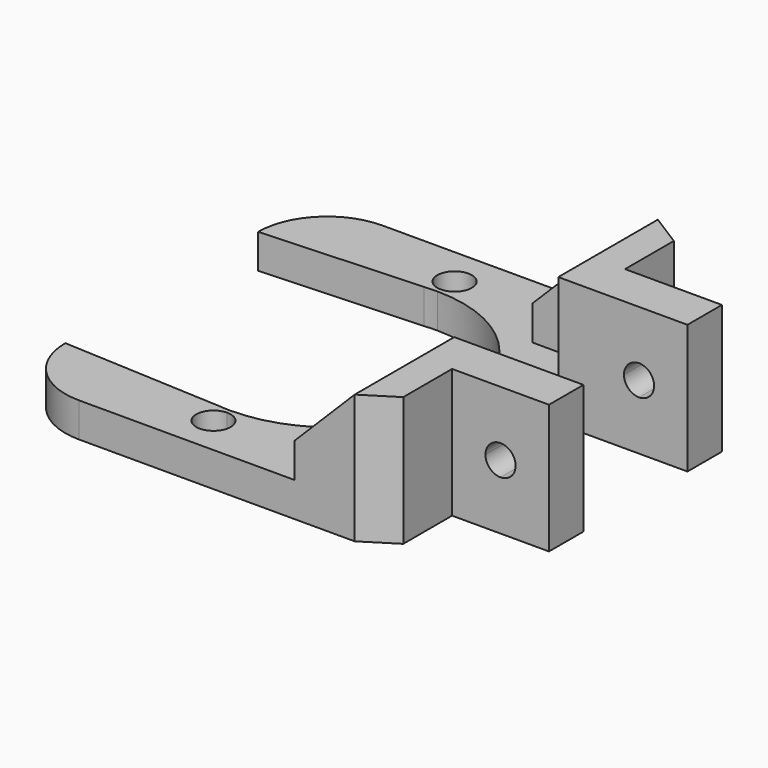
from build123d import *

# Parameters (mm, degrees)
F1_DEPTH  = 4
F2_W      = 15
F2_H      = 5
F2_W_2    = 7
F2_H_2    = 9.45
F3_DEPTH  = 15
F4_SIZE   = 7
F6_DEPTH  = 25
F8_DEPTH  = 25
F10_DEPTH = 50


with BuildPart() as f1:
    # F0 (on Top) → F1 (new body)
    with BuildSketch(Plane.XY):
        with BuildLine():
            Line((20, -22), (20, 22))
            Line((20, 22), (-12, 22))
            ThreePointArc((-12, 22), (-17.6568542495, 19.6568542495), (-20, 14))
            Line((-20, 14), (-1.4962593516, 14.9251870324))
            ThreePointArc((-1.4962593516, 14.9251870324), (-0.7490642542, 14.9812850832), (0, 15))
            ThreePointArc((0, 15), (10.6066017178, 10.6066017178), (15, 0))
            ThreePointArc((15, 0), (10.6066017178, -10.6066017178), (0, -15))
            ThreePointArc((0, -15), (-0.7490642542, -14.9812850832), (-1.4962593516, -14.9251870324))
            Line((-1.4962593516, -14.9251870324), (-20, -14))
            ThreePointArc((-20, -14), (-17.6568542495, -19.6568542495), (-12, -22))
            Line((-12, -22), (20, -22))
        make_face()
        with BuildLine():
            ThreePointArc((2, -17.5), (-1.4142135624, -18.9142135624), (0, -15.5))
            ThreePointArc((0, -15.5), (1.4142135624, -16.0857864376), (2, -17.5))
        make_face(mode=Mode.SUBTRACT)
        with BuildLine():
            ThreePointArc((2, 17.5), (1.4142135624, 16.0857864376), (0, 15.5))
            ThreePointArc((0, 15.5), (-1.4142135624, 18.9142135624), (2, 17.5))
        make_face(mode=Mode.SUBTRACT)
    extrude(amount=F1_DEPTH)

    # F2 (on Top) → F3 (join)
    with BuildSketch(Plane.XY):
        with Locations((27.5, 10.05)):
            Rectangle(F2_W, F2_H)
        with Locations((27.5, -10.05)):
            Rectangle(F2_W, F2_H)
        Polygon((20, 22), (20, 12.55), (35, 12.55), align=None)
        with Locations((16.5, 17.275)):
            Rectangle(F2_W_2, F2_H_2)
        Polygon((35, -12.55), (20, -12.55), (20, -22), align=None)
        with Locations((16.5, -17.275)):
            Rectangle(F2_W_2, F2_H_2)
    extrude(amount=F3_DEPTH)

    # F4
    f4_edges = [f1.edges().sort_by_distance(p)[0] for p in [
        (13, 17.275, 15),
        (13, -17.275, 15),
    ]]
    chamfer(f4_edges, length=F4_SIZE)

    # F5 (on face) → F6 (cut)
    with BuildSketch(Plane.XY.offset(15)):
        Polygon((27.5, 12.55), (35, 12.55), (23.75, 19.6375), (23.75, 12.55), align=None)
    extrude(amount=-F6_DEPTH, mode=Mode.SUBTRACT)

    # F7 (on face) → F8 (cut)
    with BuildSketch(Plane.XY.offset(15)):
        Polygon((23.75, -19.6375), (35, -12.55), (27.5, -12.55), (23.75, -12.55), align=None)
    extrude(amount=-F8_DEPTH, mode=Mode.SUBTRACT)

    # F9 (on face) → F10 (cut)
    with BuildSketch(Plane.XZ.offset(12.55)):
        with BuildLine():
            Line((31.125, 7.5), (29.375, 7.5))
            Line((29.375, 7.5), (29.375, 5.75))
            ThreePointArc((29.375, 5.75), (30.6124368671, 6.2625631329), (31.125, 7.5))
        make_face()
        with BuildLine():
            ThreePointArc((31.125, 7.5), (30.6124368671, 8.7374368671), (29.375, 9.25))
            Line((29.375, 9.25), (29.375, 7.5))
            Line((29.375, 7.5), (31.125, 7.5))
        make_face()
        with BuildLine():
            Line((29.375, 7.5), (29.375, 9.25))
            ThreePointArc((29.375, 9.25), (28.1375631329, 8.7374368671), (27.625, 7.5))
            Line((27.625, 7.5), (29.375, 7.5))
        make_face()
        with BuildLine():
            Line((29.375, 5.75), (29.375, 7.5))
            Line((29.375, 7.5), (27.625, 7.5))
            ThreePointArc((27.625, 7.5), (28.1375631329, 6.2625631329), (29.375, 5.75))
        make_face()
    extrude(amount=-F10_DEPTH, mode=Mode.SUBTRACT)


solid = f1.part
